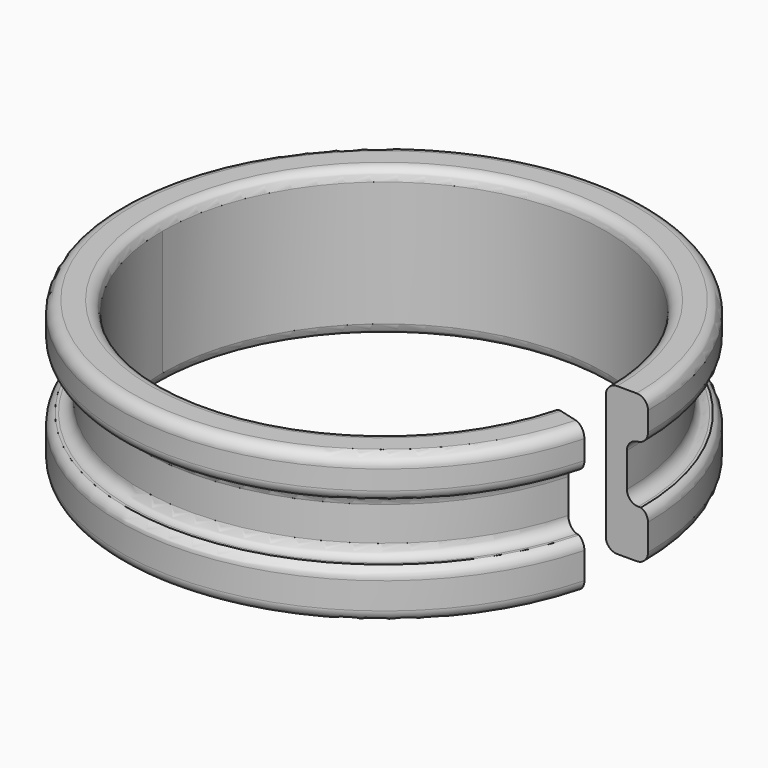
from build123d import *

# Parameters (mm, degrees)
F4_DEPTH = 7.001


with BuildPart() as f1:
    # F0 (on Front) → F1 (revolve)
    with BuildSketch(Plane.XZ):
        with BuildLine():
            Line((-11.958139, 0), (-11.041861, 0))
            ThreePointArc((-11.041861, 0), (-10.658707, 0.158707), (-10.5, 0.541861))
            Line((-10.5, 0.541861), (-10.5, 6.458139))
            ThreePointArc((-10.5, 6.458139), (-10.658707, 6.841293), (-11.041861, 7))
            Line((-11.041861, 7), (-11.5, 7))
            Line((-11.5, 7), (-11.5, 4.458139))
            Line((-11.5, 4.458139), (-11.5, 2.841861))
            ThreePointArc((-11.5, 2.841861), (-11.658707, 2.458707), (-12.041861, 2.3))
            Line((-12.041861, 2.3), (-12.165467, 2.3))
            ThreePointArc((-12.165467, 2.3), (-12.40867, 2.100429), (-12.5, 1.799372))
            Line((-12.5, 1.799372), (-12.5, 0.541861))
            ThreePointArc((-12.5, 0.541861), (-12.341293, 0.158707), (-11.958139, 0))
        make_face()
        with BuildLine():
            Line((-11.5, 4.458139), (-11.5, 7))
            Line((-11.5, 7), (-11.958139, 7))
            ThreePointArc((-11.958139, 7), (-12.341293, 6.841293), (-12.5, 6.458139))
            Line((-12.5, 6.458139), (-12.5, 5.541861))
            ThreePointArc((-12.5, 5.541861), (-12.341293, 5.158707), (-11.958139, 5))
            Line((-11.958139, 5), (-12.041861, 5))
            ThreePointArc((-12.041861, 5), (-11.658707, 4.841293), (-11.5, 4.458139))
        make_face()
    revolve(axis=Axis((0, 0, -7.919241), (0, 0, -1)))

    # F3 (on offset) → F4 (cut, through all)
    with BuildSketch(Plane.XY.offset(7)):
        with BuildLine():
            Line((12.5, 0), (10.5, 0))
            ThreePointArc((10.5, 0), (10.410171, -1.370525), (10.142221, -2.7176))
            Line((10.142221, -2.7176), (12.074073, -3.235238))
            ThreePointArc((12.074073, -3.235238), (12.393061, -1.631577), (12.5, 0))
        make_face()
    extrude(amount=-F4_DEPTH, mode=Mode.SUBTRACT)


solid = f1.part
